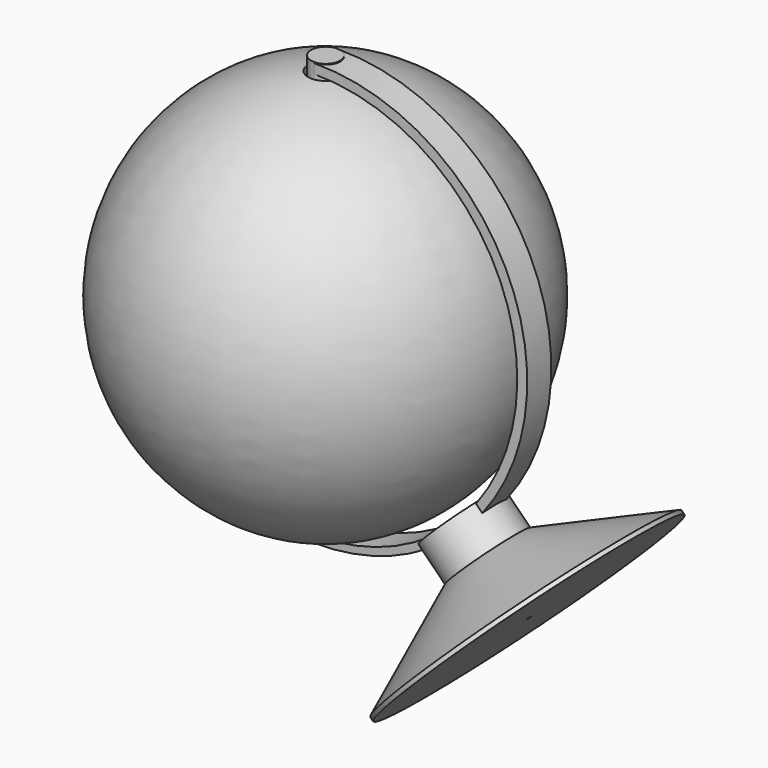
from build123d import *

# Parameters (mm, degrees)
F2_R          = 2.4425969919
F3_DEPTH      = 44.704
F3_DEPTH_BACK = 26.67
F5_DEPTH      = 2.54
F5_DEPTH_BACK = 2.54


with BuildPart() as f1:
    # F0 (on Front) → F1 (revolve)
    with BuildSketch(Plane.XZ):
        with BuildLine():
            ThreePointArc((0, -24.1656266153), (28.9927160322, 9.1035757214), (0, 42.3727780581))
            Line((0, 42.3727780581), (0, -24.1656266153))
        make_face()
    revolve(axis=Axis((-2.8679354582, 0, 8.9212786406), (0, 0, -1)))


with BuildPart() as f3:
    # F2 (on Top) → F3 (new body, two sides)
    with BuildSketch(Plane.XY) as f3_sk:
        with Locations((-2.8139844071, 0)):
            Circle(F2_R)
    extrude(amount=F3_DEPTH)
    extrude(f3_sk.sketch, amount=-F3_DEPTH_BACK)

    # F4 (on Front) → F5 (join, two sides)
    with BuildSketch(Plane.XZ) as f5_sk:
        with BuildLine():
            Line((-2.7480521239, -25.4356021236), (-2.9168748297, -26.6048144549))
            ThreePointArc((-2.9168748297, -26.6048144549), (33.2094216361, 8.913212403), (-2.7480521239, 44.6021407843))
            Line((-2.7480521239, 44.6021407843), (-2.7480521239, 42.9976450454))
            ThreePointArc((-2.7480521239, 42.9976450454), (31.529172792, 8.7810214609), (-2.7480521239, -25.4356021236))
        make_face()
    extrude(amount=-F5_DEPTH)
    extrude(f5_sk.sketch, amount=F5_DEPTH_BACK)

    # F6 (on Front) → F7 (revolve)
    with BuildSketch(Plane.XZ):
        Polygon((29.2867287306, -15.9237672936), (24.7966006701, -11.4336392331), (20.3064726095, -15.9237672936), (24.7966006701, -20.4138953541), align=None)
        Polygon((48.3707793997, -9.7507693814), (29.2867287306, -15.9237672936), (24.7966006701, -20.4138953541), (31.7421434447, -27.3594381288), (48.8607957959, -10.2407857776), align=None)
    revolve(axis=Axis((25.5332384259, 0, -21.7211544514), (0.7071067812, 0, -0.7071067812)))


solid = Compound([f1.part, f3.part])
